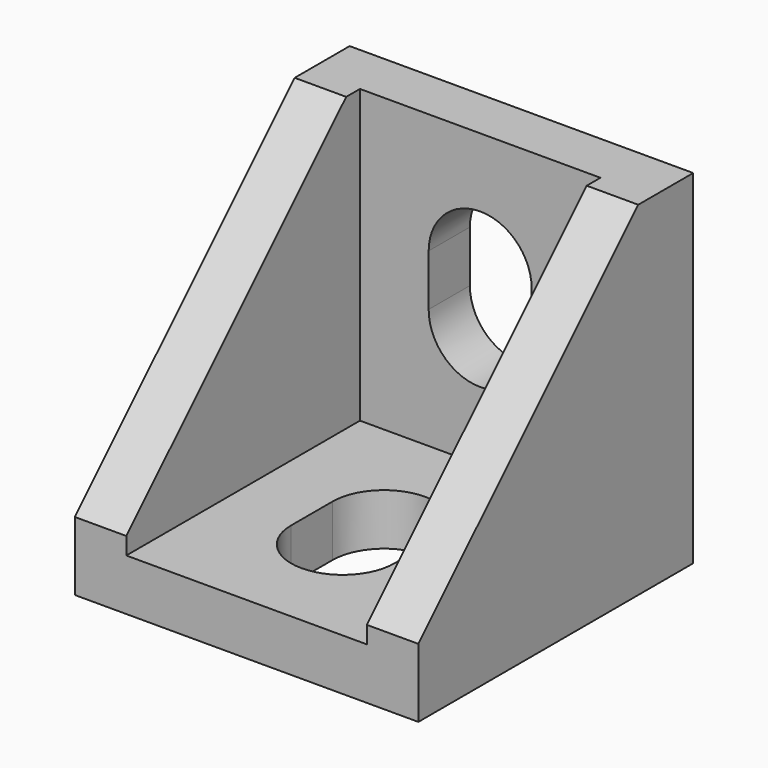
from build123d import *

# Parameters (mm, degrees)
PAD102_DEPTH            = 20
THICKNESS001_T          = -3
POCKET077_DEPTH         = 5
POCKET078_DEPTH         = 5
BODY124_PLACEMENT_ANGLE = 270


with BuildPart() as part:
    # Sketch211 (on XZ_Plane1033 of Origin1405) → Pad102 (new body)
    with BuildSketch(Plane.XZ):
        Polygon((0, 0), (0, 20), (4, 20), (20, 4), (20, 0), align=None)
    extrude(amount=PAD102_DEPTH)

    # Thickness001
    thickness001_openings = [part.faces().sort_by_distance(p)[0] for p in [
        (2, -10, 20),
        (12, -10, 12),
        (20, -10, 2),
    ]]
    offset(amount=THICKNESS001_T, openings=thickness001_openings)

    # Sketch212 (on Face11 of Thickness001) → Pocket077 (cut)
    with BuildSketch(Plane.YZ.offset(3)):
        with BuildLine():
            ThreePointArc((-7, 13), (-10, 16), (-13, 13))
            Line((-13, 13), (-13, 10))
            ThreePointArc((-13, 10), (-10, 7), (-7, 10))
            Line((-7, 13), (-7, 10))
        make_face()
    extrude(amount=-POCKET077_DEPTH, mode=Mode.SUBTRACT)

    # Sketch213 (on Face16 of Pocket077) → Pocket078 (cut)
    with BuildSketch(Plane.XY.offset(3)):
        with BuildLine():
            ThreePointArc((10, -7), (7, -10), (10, -13))
            Line((10, -13), (13, -13))
            ThreePointArc((13, -13), (16, -10), (13, -7))
            Line((10, -7), (13, -7))
        make_face()
    extrude(amount=-POCKET078_DEPTH, mode=Mode.SUBTRACT)


with BuildPart() as part_1:
    # Body124 placement: moved
    add(part.part.moved(Location((230, 230, -33))).rotate(Axis((230, 230, -33), (0, 0, 1)), BODY124_PLACEMENT_ANGLE))


solid = part_1.part
